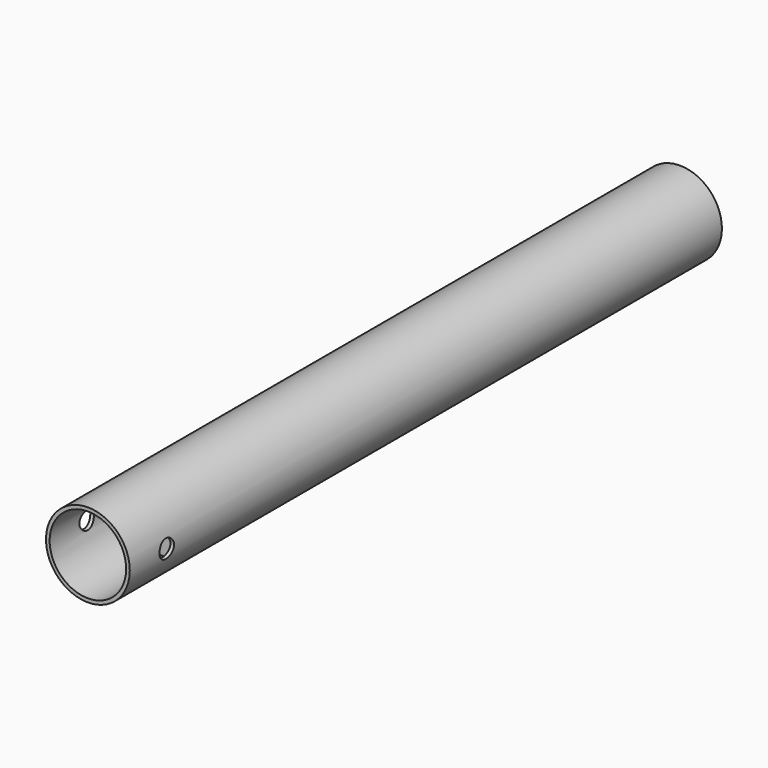
from build123d import *

# Parameters (mm, degrees)
F0_R     = 11.5
F0_R_2   = 10.5
F1_DEPTH = 203.2
F2_DEPTH = 25.4
F3_R     = 2.5019
F4_DEPTH = 12.7


with BuildPart() as f1:
    # F0 (on Front) → F1 (new body)
    with BuildSketch(Plane.XZ):
        Circle(F0_R)
        Circle(F0_R_2, mode=Mode.SUBTRACT)
        Circle(F0_R_2)
    extrude(amount=-F1_DEPTH)

    # F0 (on Front) → F2 (cut)
    with BuildSketch(Plane.XZ):
        Circle(F0_R_2)
    extrude(amount=-F2_DEPTH, mode=Mode.SUBTRACT)

    # F3 (on Right) → F4 (cut, symmetric)
    with BuildSketch(Plane.YZ):
        with Locations((12.7, 0)):
            Circle(F3_R)
    extrude(amount=F4_DEPTH, both=True, mode=Mode.SUBTRACT)


solid = f1.part
